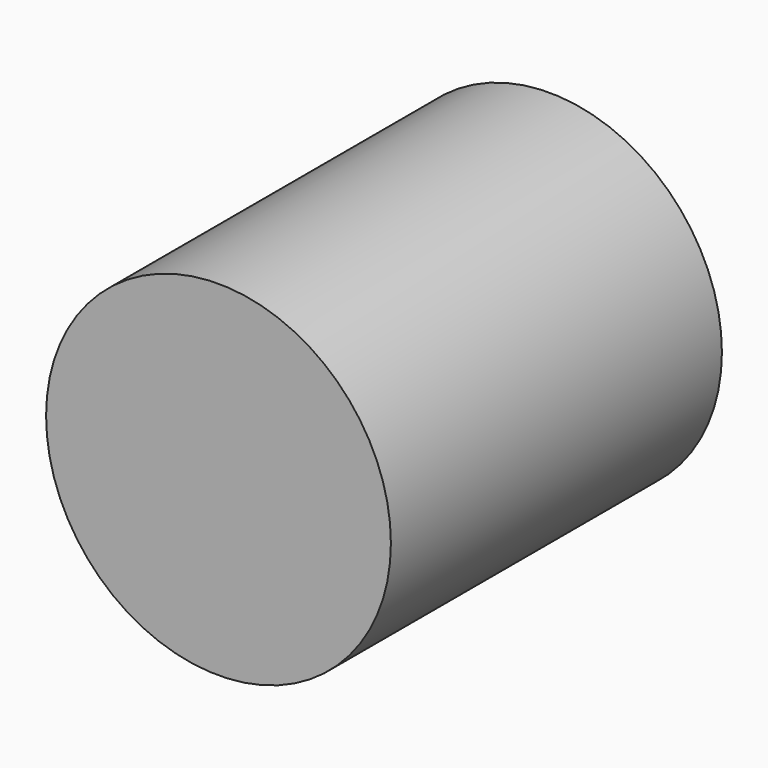
from build123d import *

# Parameters (mm, degrees)
SKETCH005_R   = 2500
SKETCH005_R_2 = 2250
PAD003_DEPTH  = 2750
SKETCH006_R   = 2500
PAD004_DEPTH  = 250
SKETCH007_R   = 2500
PAD005_DEPTH  = 250


with BuildPart() as part:
    # Sketch005 → Pad003 (new body, symmetric)
    with BuildSketch(Plane.XZ):
        Circle(SKETCH005_R)
        Circle(SKETCH005_R_2, mode=Mode.SUBTRACT)
    extrude(amount=PAD003_DEPTH, both=True)

    # Sketch006 (on Face4 of Pad003) → Pad004 (join)
    with BuildSketch(Plane.XZ.offset(2750)):
        Circle(SKETCH006_R)
    extrude(amount=PAD004_DEPTH)

    # Sketch007 (on Face1 of Pad004) → Pad005 (join)
    with BuildSketch(Plane(origin=(0, 2750, 0), x_dir=(1, 0, 0), z_dir=(0, 1, 0))):
        Circle(SKETCH007_R)
    extrude(amount=PAD005_DEPTH)


solid = part.part
